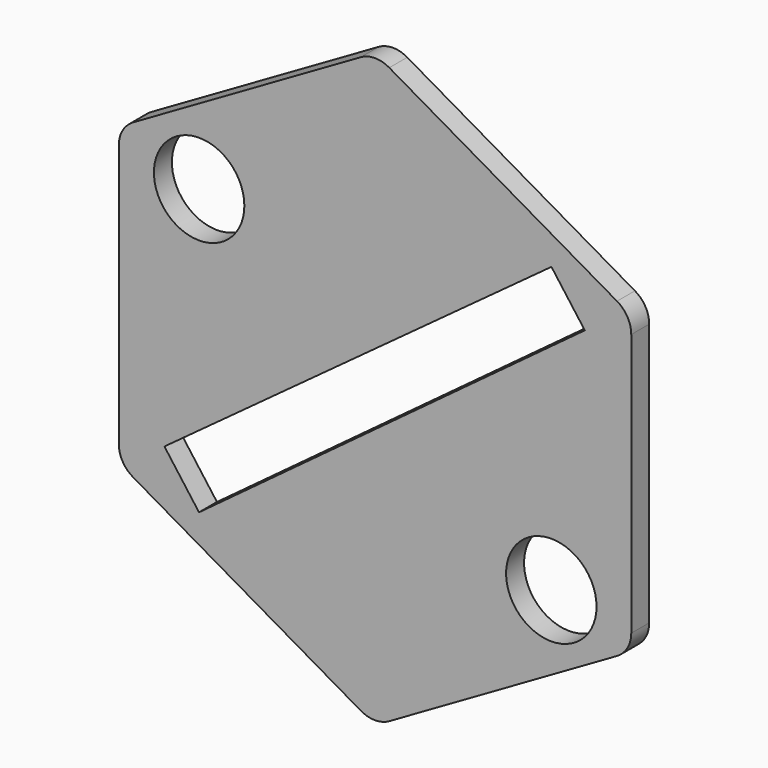
from build123d import *

# Parameters (mm, degrees)
F2_DEPTH = 0.50000027
F3_R     = 2.0145883
F4_DEPTH = 1.00100054


with BuildPart() as f2:
    # F1 (on face) → F2 (new body, symmetric)
    with BuildSketch(Plane.XZ):
        with BuildLine():
            Line((10.7823, 6.9583986494), (0.635, 12.8169450359))
            ThreePointArc((0.635, 12.8169450359), (0, 12.9870927731), (-0.635, 12.8169450359))
            Line((-0.635, 12.8169450359), (-10.7823, 6.9583986494))
            ThreePointArc((-10.7823, 6.9583986494), (-11.2471522628, 6.4935463865), (-11.4173, 5.8585463865))
            Line((-11.4173, 5.8585463865), (-11.4173, -5.8585463865))
            ThreePointArc((-11.4173, -5.8585463865), (-11.2471522628, -6.4935463865), (-10.7823, -6.9583986494))
            Line((-10.7823, -6.9583986494), (-0.635, -12.8169450359))
            ThreePointArc((-0.635, -12.8169450359), (0, -12.9870927731), (0.635, -12.8169450359))
            Line((0.635, -12.8169450359), (10.7823, -6.9583986494))
            ThreePointArc((10.7823, -6.9583986494), (11.2471522628, -6.4935463865), (11.4173, -5.8585463865))
            Line((11.4173, -5.8585463865), (11.4173, 5.8585463865))
            ThreePointArc((11.4173, 5.8585463865), (11.2471522628, 6.4935463865), (10.7823, 6.9583986494))
        make_face()
    extrude(amount=F2_DEPTH, both=True)

    # F3 (on face) → F4 (cut, through all)
    with BuildSketch(Plane.XZ.offset(0.50000027)):
        with Locations((-7.8372424936, 5.2992602071)):
            Circle(F3_R)
        with Locations((7.855462988, -5.3238531125)):
            Circle(F3_R)
        Polygon((9.347630384, 5.3473638789), (7.8608274008, 7.3554802523), (-9.3841351775, -5.2980676102), (-7.8425419815, -7.3801851288), align=None)
    extrude(amount=-F4_DEPTH, mode=Mode.SUBTRACT)


solid = f2.part
